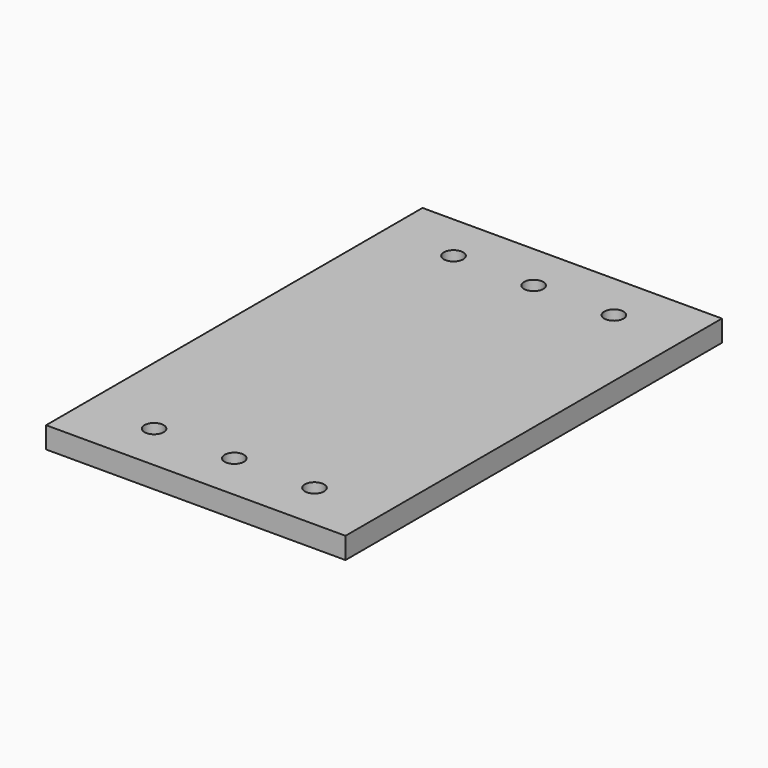
from build123d import *

# Parameters (mm, degrees)
SKETCH_W        = 56
SKETCH_H        = 88
PAD_DEPTH       = 4
SKETCH004_R     = 1.8
POCKET001_DEPTH = 5


with BuildPart() as part:
    # Sketch → Pad (new body)
    with BuildSketch(Plane.XY):
        Rectangle(SKETCH_W, SKETCH_H)
    extrude(amount=PAD_DEPTH)

    # Sketch004 → Pocket001 (cut)
    with BuildSketch(Plane(origin=(0, 0, 0), x_dir=(1, 0, 0), z_dir=(0, 0, -1))):
        with Locations((0, -35)):
            Circle(SKETCH004_R)
        with Locations((15, -35)):
            Circle(SKETCH004_R)
        with Locations((-15, -35)):
            Circle(SKETCH004_R)
        with Locations((15, 35)):
            Circle(SKETCH004_R)
        with Locations((0, 35)):
            Circle(SKETCH004_R)
        with Locations((-15, 35)):
            Circle(SKETCH004_R)
    extrude(amount=-POCKET001_DEPTH, mode=Mode.SUBTRACT)


solid = part.part
